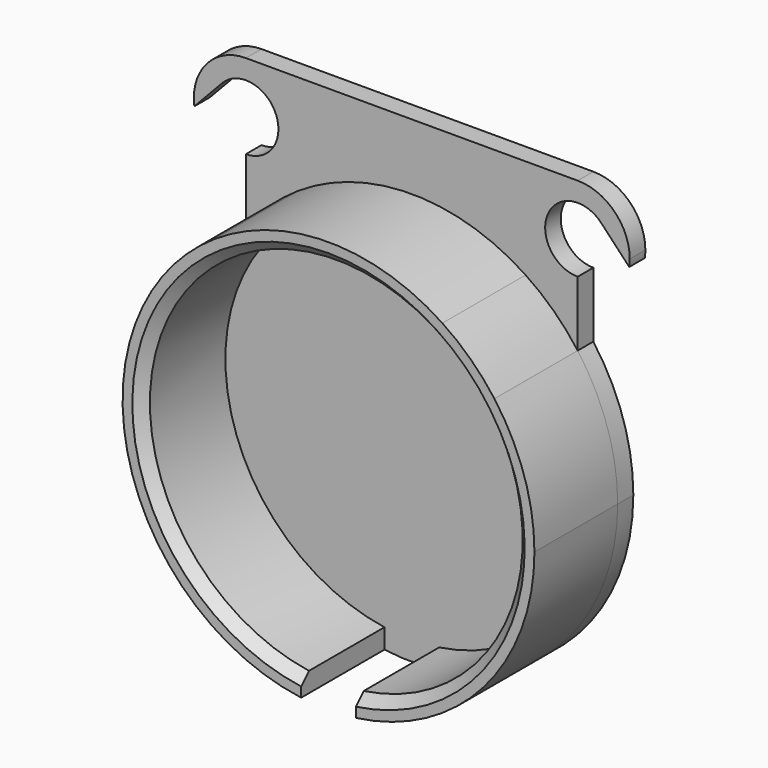
from build123d import *

# Parameters (mm, degrees)
F6_R     = 28.65
F1_DEPTH = 3
F2_DEPTH = 16
F4_DEPTH = 16
F5_SIZE  = 1.5


with BuildPart() as f1:
    # F6 (on Front) → F1 (new body)
    with BuildSketch(Plane.XZ):
        with BuildLine():
            ThreePointArc((-25.5, 18.7475998464), (-9.8652800264, -30.0732231395), (31.65, 0))
            ThreePointArc((31.65, 0), (30.0732231395, 9.8652800264), (25.5, 18.7475998464))
            ThreePointArc((25.5, 18.7475998464), (21.8353418806, 22.9115766581), (17.5, 26.3718126036))
            ThreePointArc((17.5, 26.3718126036), (0, 31.65), (-17.5, 26.3718126036))
            ThreePointArc((-17.5, 26.3718126036), (-21.8353418806, 22.9115766581), (-25.5, 18.7475998464))
        make_face()
        Circle(F6_R, mode=Mode.SUBTRACT)
        Circle(F6_R)
        with BuildLine():
            ThreePointArc((-17.5, 26.3718126036), (0, 31.65), (17.5, 26.3718126036))
            Line((17.5, 26.3718126036), (17.5, 33.7475998464))
            ThreePointArc((17.5, 33.7475998464), (19.8431457505, 39.4044540959), (25.5, 41.7475998464))
            Line((25.5, 41.7475998464), (-25.5, 41.7475998464))
            ThreePointArc((-25.5, 41.7475998464), (-19.8431457505, 39.4044540959), (-17.5, 33.7475998464))
            Line((-17.5, 33.7475998464), (-17.5, 26.3718126036))
        make_face()
        with BuildLine():
            Line((-25.5, 28.7475998464), (-25.5, 25.7475998464))
            ThreePointArc((-25.5, 25.7475998464), (-19.8431457505, 28.0907455969), (-17.5, 33.7475998464))
            ThreePointArc((-17.5, 33.7475998464), (-19.8431457505, 39.4044540959), (-25.5, 41.7475998464))
            ThreePointArc((-25.5, 41.7475998464), (-31.5363482338, 38.9975998464), (-33.4227070569, 32.6382248464))
            Line((-33.4227070569, 32.6382248464), (-29.1360609327, 37.1796634958))
            ThreePointArc((-29.1360609327, 37.1796634958), (-23.6534227154, 38.3941203006), (-20.5, 33.7475998464))
            ThreePointArc((-20.5, 33.7475998464), (-21.9644660941, 30.2120659404), (-25.5, 28.7475998464))
        make_face()
        with BuildLine():
            ThreePointArc((17.5, 33.7475998464), (19.8431457505, 28.0907455969), (25.5, 25.7475998464))
            Line((25.5, 25.7475998464), (25.5, 28.7475998464))
            ThreePointArc((25.5, 28.7475998464), (20.9086865579, 35.7274586485), (29.1360609327, 37.1796634958))
            Line((29.1360609327, 37.1796634958), (33.4227070569, 32.6382248464))
            ThreePointArc((33.4227070569, 32.6382248464), (33.480653371, 33.1915676779), (33.5, 33.7475998464))
            ThreePointArc((33.5, 33.7475998464), (31.1568542495, 39.4044540959), (25.5, 41.7475998464))
            ThreePointArc((25.5, 41.7475998464), (19.8431457505, 39.4044540959), (17.5, 33.7475998464))
        make_face()
        with BuildLine():
            Line((-25.5, 25.7475998464), (-25.5, 18.7475998464))
            ThreePointArc((-25.5, 18.7475998464), (-21.8353418806, 22.9115766581), (-17.5, 26.3718126036))
            Line((-17.5, 26.3718126036), (-17.5, 33.7475998464))
            ThreePointArc((-17.5, 33.7475998464), (-19.8431457505, 28.0907455969), (-25.5, 25.7475998464))
        make_face()
        with BuildLine():
            Line((-25.5, 25.7475998464), (-25.5, 18.7475998464))
            ThreePointArc((-25.5, 18.7475998464), (-21.8353418806, 22.9115766581), (-17.5, 26.3718126036))
            Line((-17.5, 26.3718126036), (-17.5, 33.7475998464))
            ThreePointArc((-17.5, 33.7475998464), (-19.8431457505, 28.0907455969), (-25.5, 25.7475998464))
        make_face()
        with BuildLine():
            ThreePointArc((17.5, 26.3718126036), (21.8353418806, 22.9115766581), (25.5, 18.7475998464))
            Line((25.5, 18.7475998464), (25.5, 25.7475998464))
            ThreePointArc((25.5, 25.7475998464), (19.8431457505, 28.0907455969), (17.5, 33.7475998464))
            Line((17.5, 33.7475998464), (17.5, 26.3718126036))
        make_face()
        with BuildLine():
            ThreePointArc((17.5, 26.3718126036), (21.8353418806, 22.9115766581), (25.5, 18.7475998464))
            Line((25.5, 18.7475998464), (25.5, 25.7475998464))
            ThreePointArc((25.5, 25.7475998464), (19.8431457505, 28.0907455969), (17.5, 33.7475998464))
            Line((17.5, 33.7475998464), (17.5, 26.3718126036))
        make_face()
    extrude(amount=-F1_DEPTH)

    # F6 (on Front) → F2 (join)
    with BuildSketch(Plane.XZ):
        with BuildLine():
            ThreePointArc((-25.5, 18.7475998464), (-9.8652800264, -30.0732231395), (31.65, 0))
            ThreePointArc((31.65, 0), (30.0732231395, 9.8652800264), (25.5, 18.7475998464))
            ThreePointArc((25.5, 18.7475998464), (21.8353418806, 22.9115766581), (17.5, 26.3718126036))
            ThreePointArc((17.5, 26.3718126036), (0, 31.65), (-17.5, 26.3718126036))
            ThreePointArc((-17.5, 26.3718126036), (-21.8353418806, 22.9115766581), (-25.5, 18.7475998464))
        make_face()
        Circle(F6_R, mode=Mode.SUBTRACT)
    extrude(amount=F2_DEPTH)

    # F3 (on face) → F4 (cut, through all)
    with BuildSketch(Plane.XZ.offset(16)):
        with BuildLine():
            ThreePointArc((4.2, -28.3404745902), (0, -28.65), (-4.2, -28.3404745902))
            Line((-4.2, -28.3404745902), (-4.2, -31.3700892571))
            ThreePointArc((-4.2, -31.3700892571), (0, -31.65), (4.2, -31.3700892571))
            Line((4.2, -31.3700892571), (4.2, -28.3404745902))
        make_face()
    extrude(amount=-F4_DEPTH, mode=Mode.SUBTRACT)

    # F5
    f5_edges = [f1.edges().sort_by_distance(p)[0] for p in [
        (-18.714867, -16, 21.69277),
    ]]
    chamfer(f5_edges, length=F5_SIZE)


solid = f1.part
